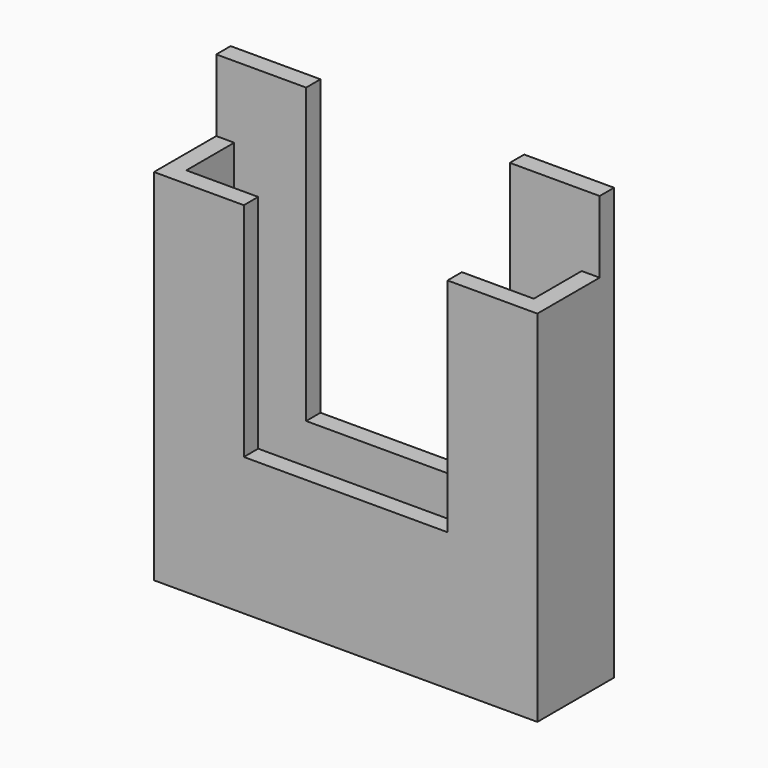
from build123d import *

# Parameters (mm, degrees)
F0_W     = 406.4
F0_H     = 457.2
F1_DEPTH = 101.6
F2_W     = 82.55
F2_H     = 76.2
F3_DEPTH = 406.4
F4_W     = 368.3
F4_H     = 63.5
F5_DEPTH = 361.95
F6_W     = 215.9
F6_H     = 311.15
F7_DEPTH = 101.6


with BuildPart() as f1:
    # F0 (on Front) → F1 (new body)
    with BuildSketch(Plane.XZ):
        with Locations((3.443759, -38.172014)):
            Rectangle(F0_W, F0_H)
    extrude(amount=F1_DEPTH)

    # F2 (on face) → F3 (cut)
    with BuildSketch(Plane.YZ.offset(206.643759)):
        with Locations((-60.325, 152.327986)):
            Rectangle(F2_W, F2_H)
    extrude(amount=-F3_DEPTH, mode=Mode.SUBTRACT)

    # F4 (on face) → F5 (cut)
    with BuildSketch(Plane.XY.offset(114.227986)):
        with Locations((3.443759, -50.8)):
            Rectangle(F4_W, F4_H)
    extrude(amount=-F5_DEPTH, mode=Mode.SUBTRACT)

    # F6 (on face) → F7 (cut)
    with BuildSketch(Plane(origin=(0, 0, 0), x_dir=(-1, 0, 0), z_dir=(0, 1, 0))):
        with Locations((-3.443759, 34.852986)):
            Rectangle(F6_W, F6_H)
    extrude(amount=-F7_DEPTH, mode=Mode.SUBTRACT)


solid = f1.part
